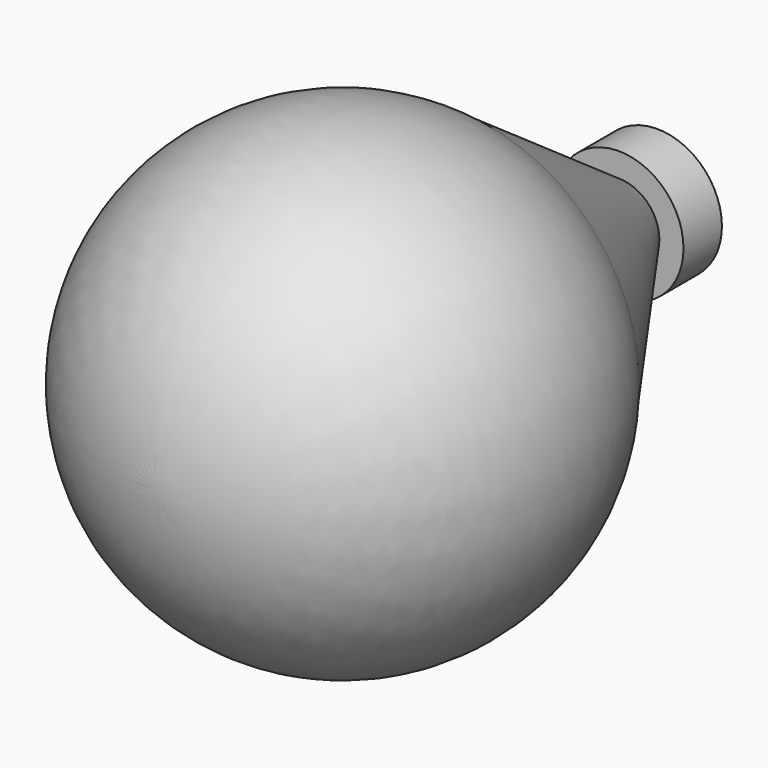
from build123d import *

# Parameters (mm, degrees)
F0_R     = 8.89
F1_DEPTH = 6.604


with BuildPart() as f1:
    # F0 (on Front) → F1 (new body)
    with BuildSketch(Plane.XZ):
        Circle(F0_R)
    extrude(amount=-F1_DEPTH)

    # F2 (on Right) → F3 (revolve)
    with BuildSketch(Plane.YZ):
        with BuildLine():
            Line((-79.334499, 0), (-15.625601, 0))
            ThreePointArc((-15.625601, 0), (-18.724445, 13.704783), (-27.418057, 24.743127))
            ThreePointArc((-27.418057, 24.743127), (-61.184834, 28.755605), (-79.334499, 0))
        make_face()
        with BuildLine():
            ThreePointArc((-27.418057, 24.743127), (-18.724445, 13.704783), (-15.625601, 0))
            Line((-15.625601, 0), (0, 0))
            Line((0, 0), (0, 5.572776))
            Line((0, 5.572776), (-27.418057, 24.743127))
        make_face()
    revolve(axis=Axis((0, -21.845283, 0), (0, 1, 0)))


solid = f1.part
